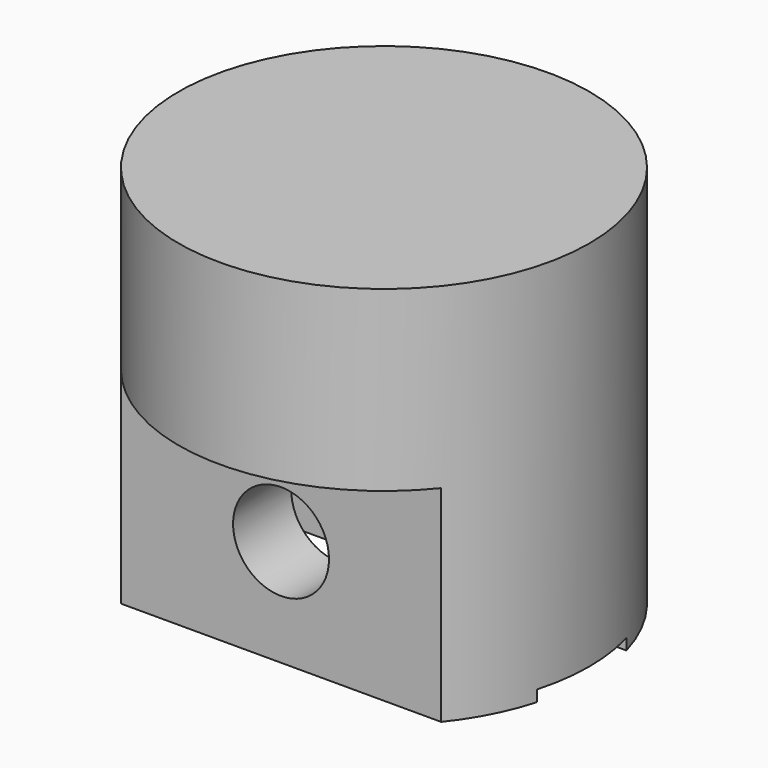
from build123d import *

# Parameters (mm, degrees)
F0_R     = 6.425
F1_DEPTH = 12
F2_R     = 1.5
F3_DEPTH = 12.5
F5_DEPTH = 1.75
F6_W     = 3.5
F6_H     = 0.3499913151
F6_W_2   = 2.4
F6_H_2   = 1.6
F6_H_3   = 3
F6_H_4   = 1.8378814235
F7_DEPTH = 12.5


with BuildPart() as f1:
    # F0 (on Top) → F1 (new body)
    with BuildSketch(Plane.XY):
        Circle(F0_R)
    extrude(amount=-F1_DEPTH)

    # F2 (on Front) → F3 (cut, symmetric)
    with BuildSketch(Plane.XZ):
        with Locations((0, -8.6621185765)):
            Circle(F2_R)
    extrude(amount=F3_DEPTH, both=True, mode=Mode.SUBTRACT)

    # F4 (on Front) → F5 (cut, symmetric)
    with BuildSketch(Plane.XZ):
        with BuildLine():
            Line((6.425, -12), (2.7726078369, -6.7377301586))
            ThreePointArc((2.7726078369, -6.7377301586), (0, -5.2871185765), (-2.7726078369, -6.7377301586))
            Line((-2.7726078369, -6.7377301586), (-6.425, -12))
            Line((-6.425, -12), (6.425, -12))
        make_face()
    extrude(amount=F5_DEPTH, both=True, mode=Mode.SUBTRACT)

    # F6 (on Right) → F7 (cut, symmetric)
    with BuildSketch(Plane.YZ):
        with Locations((0, -11.8250043425)):
            Rectangle(F6_W, F6_H)
        with Locations((-5.225, -6.3621185765)):
            Rectangle(F6_W_2, F6_H_2)
        with Locations((-5.225, -8.6621185765)):
            Rectangle(F6_W_2, F6_H_3)
        with Locations((-5.225, -11.0810592882)):
            Rectangle(F6_W_2, F6_H_4)
    extrude(amount=F7_DEPTH, both=True, mode=Mode.SUBTRACT)


solid = f1.part
